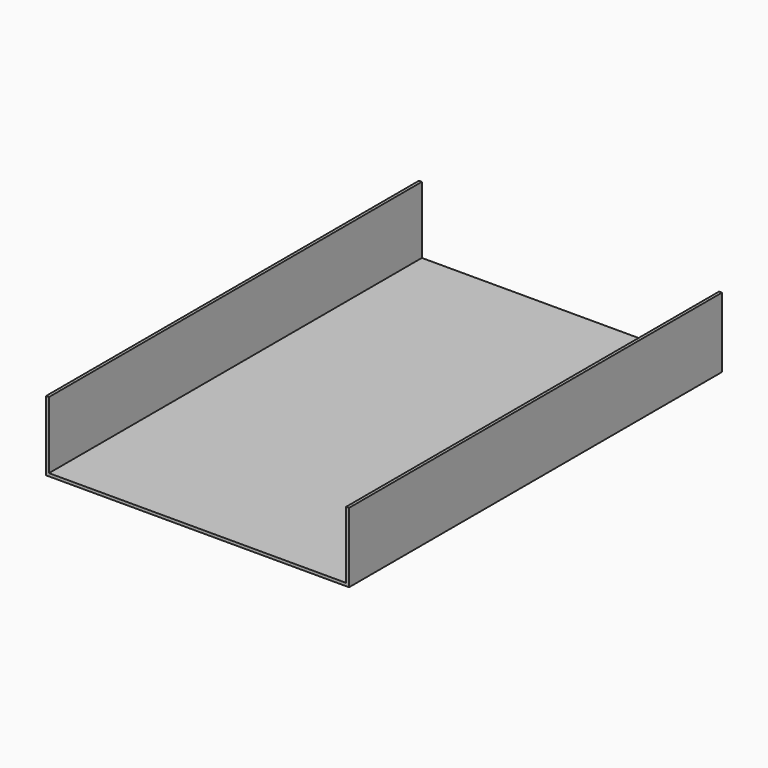
from build123d import *

# Parameters (mm, degrees)
F0_W     = 330.2
F0_H     = 508
F1_DEPTH = 76.2
F2_T     = -3.175


with BuildPart() as f1:
    # F0 (on Top) → F1 (new body)
    with BuildSketch(Plane.XY):
        Rectangle(F0_W, F0_H)
    extrude(amount=F1_DEPTH)

    # F2
    f2_openings = [f1.faces().sort_by_distance(p)[0] for p in [
        (0, 0, 76.2),
        (0, -254, 38.1),
        (0, 254, 38.1),
    ]]
    offset(amount=F2_T, openings=f2_openings)


solid = f1.part
